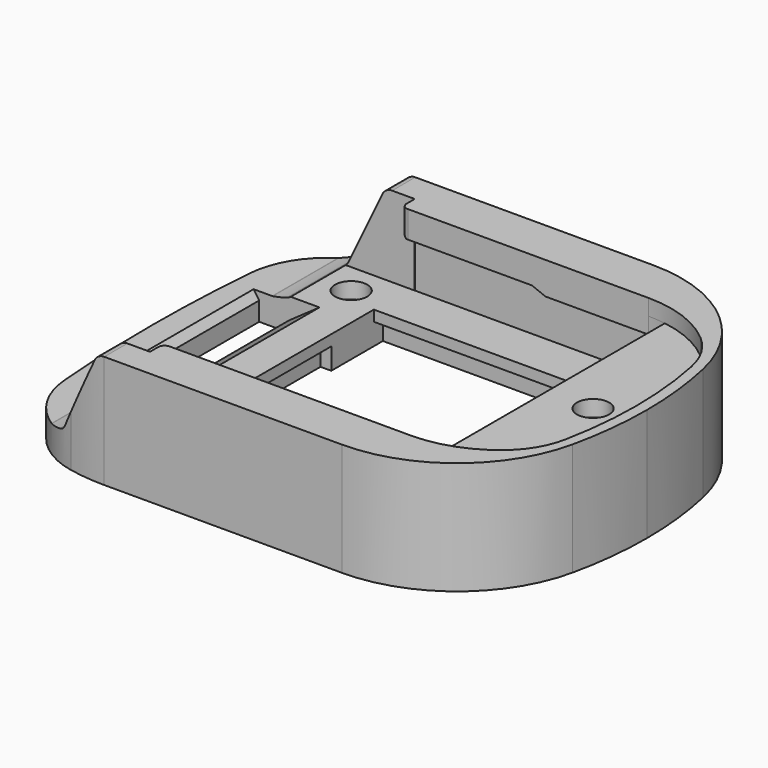
from build123d import *

# Parameters (mm, degrees)
SKETCH_R          = 1.6
PAD_DEPTH         = 21
POCKET_DEPTH      = 36.1638711749
POCKET_DEPTH_BACK = 36.1638711749
POCKET001_DEPTH   = 3
POCKET002_DEPTH   = 12
SKETCH004_R       = 3
POCKET003_DEPTH   = 3
SKETCH005_R       = 3
POCKET004_DEPTH   = 3
POCKET005_DEPTH   = 30.8
POCKET006_DEPTH   = 4
POCKET007_DEPTH   = 18


with BuildPart() as part:
    # Sketch → Pad (new body)
    with BuildSketch(Plane.XY):
        with BuildLine():
            ThreePointArc((0.9, 21.6), (0.2250976252, 10.8093709323), (0, 0))
            ThreePointArc((0, 0), (0.2250976252, -10.8093709323), (0.9, -21.6))
            ThreePointArc((0.9, -21.6), (4.7770016669, -30.6223150598), (13.3, -35.5))
            ThreePointArc((13.3, -35.5), (16.6336444708, -35.9967498287), (20, -36.1628711749))
            Line((20, -36.1628711749), (64.2, -36.1628711749))
            ThreePointArc((64.2, -36.1628711749), (80.950441462, -30.2745268069), (90.3317276275, -15.2))
            ThreePointArc((90.3317276275, -15.2), (91.5816834036, -7.6456381799), (92, 0))
            ThreePointArc((92, 0), (91.5816834036, 7.6456381799), (90.3317276275, 15.2))
            ThreePointArc((90.3317276275, 15.2), (80.950441462, 30.2745268069), (64.2, 36.1628711749))
            Line((20, 36.1628711749), (64.2, 36.1628711749))
            ThreePointArc((20, 36.1628711749), (16.6336444708, 35.9967498287), (13.3, 35.5))
            ThreePointArc((13.3, 35.5), (4.7770016669, 30.6223150598), (0.9, 21.6))
        make_face()
        with Locations((17, 25)):
            Circle(SKETCH_R, mode=Mode.SUBTRACT)
        with Locations((17, -25)):
            Circle(SKETCH_R, mode=Mode.SUBTRACT)
        with BuildLine():
            ThreePointArc((83.6, 0), (82, 1.6), (80.4, 0))
            ThreePointArc((80.4, 0), (82, -1.6), (83.6, 0))
        make_face(mode=Mode.SUBTRACT)
        Polygon((23.3, 0), (23.3, 22.4), (59.9, 22.4), (59.9, 10.5), (72.1, 10.5), (72.1, 0), (72.1, -10.5), (59.9, -10.5), (59.9, -22.4), (23.3, -22.4), align=None, mode=Mode.SUBTRACT)
    extrude(amount=PAD_DEPTH)

    # Sketch001 → Pocket (cut, two sides)
    with BuildSketch(Plane.XZ) as pocket_sk:
        with BuildLine():
            Line((0, 5), (0, 21))
            Line((0, 21), (20, 21))
            ThreePointArc((20, 21), (18.9362470202, 20.6928206855), (18.2, 19.8658564429))
            Line((18.2, 19.8658564429), (11.9, 6.7))
            ThreePointArc((10.6, 5.6), (11.3678698195, 6.0106993043), (11.9, 6.7))
            ThreePointArc((8, 5.008391541), (9.3083281759, 5.267595115), (10.6, 5.6))
            ThreePointArc((7.9, 5), (7.9501757361, 5.0021015655), (8, 5.008391541))
            Line((0, 5), (7.9, 5))
        make_face()
    extrude(amount=-POCKET_DEPTH, mode=Mode.SUBTRACT)
    extrude(pocket_sk.sketch, amount=POCKET_DEPTH_BACK, mode=Mode.SUBTRACT)

    # Sketch002 (on Face34 of Pocket) → Pocket001 (cut)
    with BuildSketch(Plane.XY.offset(21)):
        with BuildLine():
            Line((24.2, 30.78), (0, 30.78))
            Line((0, 0), (0, 30.78))
            Line((0, 0), (0, -30.78))
            Line((24.2, -30.78), (0, -30.78))
            Line((24.2, -30.78), (24.2, -28.88))
            ThreePointArc((25.4, -27.68), (24.5514718626, -28.0314718626), (24.2, -28.88))
            Line((25.4, -27.68), (70.2, -27.68))
            ThreePointArc((70.2, -27.68), (77.4415537007, -26.3958494637), (83.8, -22.7))
            ThreePointArc((83.8, -22.7), (86.8411272784, -19.0996370304), (88.5305835924, -14.7))
            ThreePointArc((88.5305835924, -14.7), (89.6317327981, -7.3866295524), (90, 0))
            ThreePointArc((90, 0), (89.6317327981, 7.3866295524), (88.5305835924, 14.7))
            ThreePointArc((88.5305835924, 14.7), (86.8411272784, 19.0996370304), (83.8, 22.7))
            ThreePointArc((83.8, 22.7), (77.4415537007, 26.3958494637), (70.2, 27.68))
            Line((25.4, 27.68), (70.2, 27.68))
            ThreePointArc((24.2, 28.88), (24.5514718626, 28.0314718626), (25.4, 27.68))
            Line((24.2, 30.78), (24.2, 28.88))
        make_face()
    extrude(amount=-POCKET001_DEPTH, mode=Mode.SUBTRACT)

    # Sketch003 (on Face35 of Pocket001) → Pocket002 (cut)
    with BuildSketch(Plane.XY.offset(18)):
        with BuildLine():
            Line((0, 0), (0, 30.78))
            Line((0, 30.78), (24.2, 30.78))
            Line((24.2, 28.88), (24.2, 30.78))
            ThreePointArc((24.2, 28.88), (24.5514718626, 28.0314718626), (25.4, 27.68))
            Line((25.4, 27.68), (70.2, 27.68))
            ThreePointArc((73.4, 27.4354687069), (71.8046647277, 27.6187781914), (70.2, 27.68))
            Line((73.4, 27.4354687069), (73.4, 0))
            Line((73.4, -27.4354687069), (73.4, 0))
            ThreePointArc((70.2, -27.68), (71.8046647277, -27.6187781914), (73.4, -27.4354687069))
            Line((25.4, -27.68), (70.2, -27.68))
            ThreePointArc((25.4, -27.68), (24.5514718626, -28.0314718626), (24.2, -28.88))
            Line((24.2, -28.88), (24.2, -30.78))
            Line((0, -30.78), (24.2, -30.78))
            Line((0, 0), (0, -30.78))
        make_face()
    extrude(amount=-POCKET002_DEPTH, mode=Mode.SUBTRACT)

    # Sketch004 (on Face39 of Pocket002) → Pocket003 (cut)
    with BuildSketch(Plane.XY.offset(6)):
        with Locations((17, 25)):
            Circle(SKETCH004_R)
        with Locations((17, -25)):
            Circle(SKETCH004_R)
    extrude(amount=-POCKET003_DEPTH, mode=Mode.SUBTRACT)

    # Sketch005 (on Face42 of Pocket003) → Pocket004 (cut)
    with BuildSketch(Plane.XY.offset(18)):
        with Locations((82, 0)):
            Circle(SKETCH005_R)
    extrude(amount=-POCKET004_DEPTH, mode=Mode.SUBTRACT)

    # Sketch006 → Pocket005 (cut, symmetric)
    with BuildSketch(Plane.XZ):
        Polygon((73.4, 15), (51, 15), (48.5, 16), (25, 16), (24.2, 16.4), (24.2, 6), (73.4, 6), align=None)
    extrude(amount=POCKET005_DEPTH, both=True, mode=Mode.SUBTRACT)

    # Sketch007 (on Face2 of Pocket005) → Pocket006 (cut)
    with BuildSketch(Plane(origin=(0, 0, 0), x_dir=(1, 0, 0), z_dir=(0, 0, -1))):
        Polygon((21.3, 0), (21.3, 12.5), (23.3, 12.5), (23.3, 24.5), (62.3, 24.5), (62.3, 12.5), (75.3, 12.5), (75.3, 0), (75.3, -12.5), (62.3, -12.5), (62.3, -24.5), (23.3, -24.5), (23.3, -12.5), (21.3, -12.5), align=None)
    extrude(amount=-POCKET006_DEPTH, mode=Mode.SUBTRACT)

    # Sketch008 → Pocket007 (cut, symmetric)
    with BuildSketch(Plane.XZ):
        Polygon((5.5, 0), (11, 0), (11, 2), (16.7, 6), (4.45, 6), (4.45, 5), (5.5, 3.5), align=None)
    extrude(amount=POCKET007_DEPTH, both=True, mode=Mode.SUBTRACT)


solid = part.part
